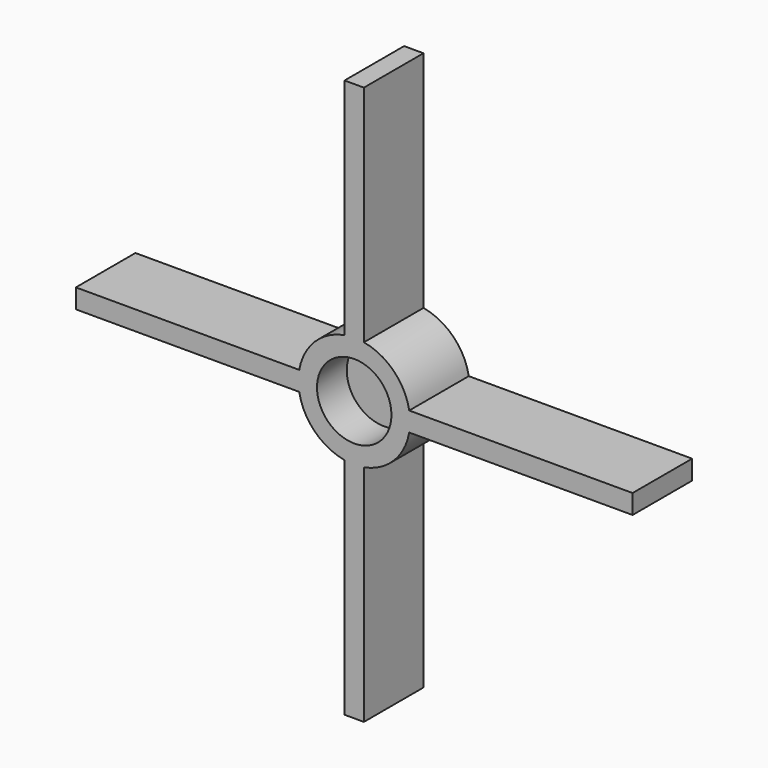
from build123d import *

# Parameters (mm, degrees)
F1_DEPTH = 10
F2_R     = 5
F3_DEPTH = 5


with BuildPart() as f1:
    # F0 (on Front) → F1 (new body)
    with BuildSketch(Plane.XZ):
        with BuildLine():
            ThreePointArc((7.386474, -1.3), (7.471565, -0.652474), (7.5, 0))
            ThreePointArc((7.5, 0), (7.471565, 0.652474), (7.386474, 1.3))
            ThreePointArc((7.386474, 1.3), (5.303301, 5.303301), (1.3, 7.386474))
            ThreePointArc((1.3, 7.386474), (0, 7.5), (-1.3, 7.386474))
            ThreePointArc((-1.3, 7.386474), (-5.303301, 5.303301), (-7.386474, 1.3))
            ThreePointArc((-7.386474, 1.3), (-7.5, 0), (-7.386474, -1.3))
            ThreePointArc((-7.386474, -1.3), (-5.303301, -5.303301), (-1.3, -7.386474))
            ThreePointArc((-1.3, -7.386474), (0, -7.5), (1.3, -7.386474))
            ThreePointArc((1.3, -7.386474), (5.303301, -5.303301), (7.386474, -1.3))
        make_face()
        with BuildLine():
            ThreePointArc((7.386474, 1.3), (7.471565, 0.652474), (7.5, 0))
            ThreePointArc((7.5, 0), (7.471565, -0.652474), (7.386474, -1.3))
            Line((7.386474, -1.3), (37.386474, -1.3))
            Line((37.386474, -1.3), (37.386474, 0))
            Line((37.386474, 0), (37.386474, 1.3))
            Line((37.386474, 1.3), (7.386474, 1.3))
        make_face()
        with BuildLine():
            ThreePointArc((-1.3, 7.386474), (0, 7.5), (1.3, 7.386474))
            Line((1.3, 7.386474), (1.3, 37.5))
            Line((1.3, 37.5), (0, 37.5))
            Line((0, 37.5), (-1.3, 37.5))
            Line((-1.3, 37.5), (-1.3, 7.386474))
        make_face()
        with BuildLine():
            Line((1.3, -37.5), (1.3, -7.386474))
            ThreePointArc((1.3, -7.386474), (0, -7.5), (-1.3, -7.386474))
            Line((-1.3, -7.386474), (-1.3, -37.5))
            Line((-1.3, -37.5), (0, -37.5))
            Line((0, -37.5), (1.3, -37.5))
        make_face()
        with BuildLine():
            ThreePointArc((-7.386474, -1.3), (-7.5, 0), (-7.386474, 1.3))
            Line((-7.386474, 1.3), (-37.386474, 1.3))
            Line((-37.386474, 1.3), (-37.386474, 0))
            Line((-37.386474, 0), (-37.386474, -1.3))
            Line((-37.386474, -1.3), (-7.386474, -1.3))
        make_face()
    extrude(amount=F1_DEPTH)

    # F2 (on face) → F3 (cut)
    with BuildSketch(Plane.XZ.offset(10)):
        Circle(F2_R)
    extrude(amount=-F3_DEPTH, mode=Mode.SUBTRACT)


solid = f1.part
